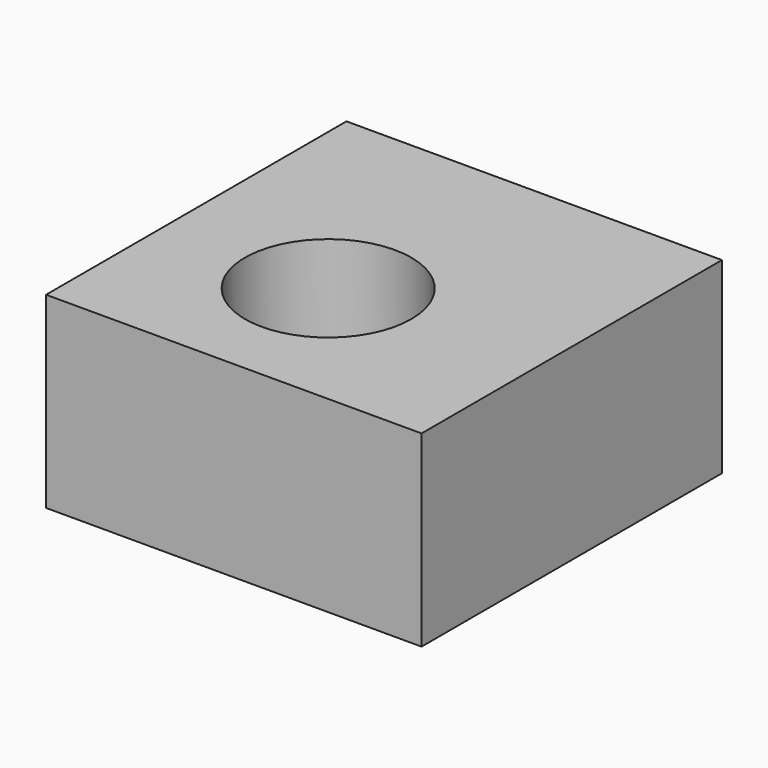
from build123d import *

# Parameters (mm, degrees)
F0_W     = 50.8
F0_H     = 50.8
F0_R     = 11.259626
F1_DEPTH = 25.4


with BuildPart() as f1:
    # F0 (on Top) → F1 (new body)
    with BuildSketch(Plane.XY):
        with Locations((3.039317, 5.644446)):
            Rectangle(F0_W, F0_H)
        Circle(F0_R, mode=Mode.SUBTRACT)
    extrude(amount=-F1_DEPTH)


solid = f1.part
